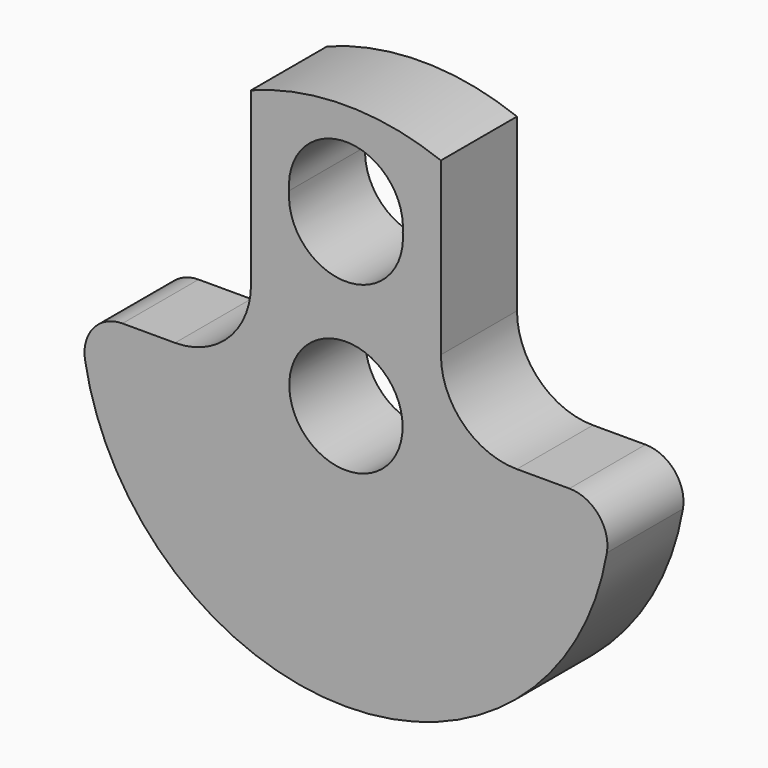
from build123d import *

# Parameters (mm, degrees)
F0_R     = 4.7371
F1_DEPTH = 7.9502
F2_R     = 6.35
F3_R     = 3.175


with BuildPart() as f1:
    # F0 (on Front) → F1 (new body)
    with BuildSketch(Plane.XZ):
        with BuildLine():
            Line((-7.9375, 0), (-22.1234, 0))
            ThreePointArc((-22.1234, 0), (0, -22.1234), (22.1234, 0))
            Line((22.1234, 0), (7.9375, 0))
            Line((7.9375, 0), (7.9375, 20.650446))
            ThreePointArc((7.9375, 20.650446), (0, 22.1234), (-7.9375, 20.650446))
            Line((-7.9375, 20.650446), (-7.9375, 0))
        make_face()
        Circle(F0_R, mode=Mode.SUBTRACT)
        with BuildLine():
            ThreePointArc((-4.747236, 14.3002), (0, 19.4437), (4.747236, 14.3002))
            ThreePointArc((4.747236, 14.3002), (0, 9.1567), (-4.747236, 14.3002))
        make_face(mode=Mode.SUBTRACT)
    extrude(amount=F1_DEPTH)

    # F2
    f2_edges = [f1.edges().sort_by_distance(p)[0] for p in [
        (-7.9375, -3.9751, 0),
        (7.9375, -3.9751, 0),
    ]]
    fillet(f2_edges, radius=F2_R)

    # F3
    f3_edges = [f1.edges().sort_by_distance(p)[0] for p in [
        (22.1234, -3.9751, 0),
        (-22.1234, -3.9751, 0),
    ]]
    fillet(f3_edges, radius=F3_R)


solid = f1.part
